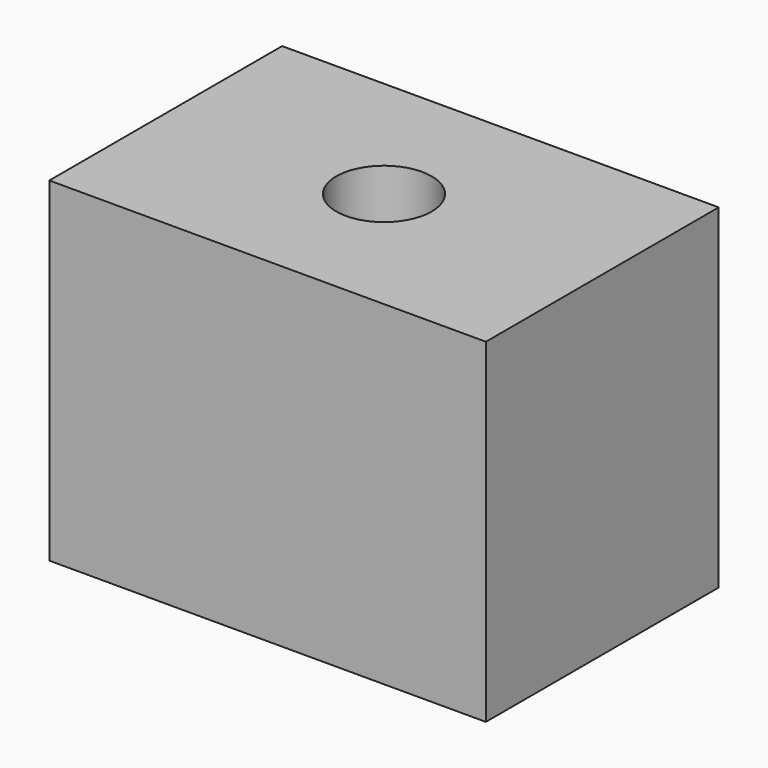
from build123d import *

# Parameters (mm, degrees)
F0_W     = 38.1
F0_H     = 25.4
F0_R     = 4.1656
F1_DEPTH = 29.21
F2_R     = 3.175
F3_DEPTH = 12.7
F4_R     = 1.5875
F5_DEPTH = 12.7


with BuildPart() as f1:
    # F0 (on Top) → F1 (new body)
    with BuildSketch(Plane.XY):
        Rectangle(F0_W, F0_H)
        Circle(F0_R, mode=Mode.SUBTRACT)
    extrude(amount=-F1_DEPTH)

    # F2 (on face) → F3 (cut)
    with BuildSketch(Plane(origin=(0, 0, -29.21), x_dir=(1, 0, 0), z_dir=(0, 0, -1))):
        with Locations((-12.7, 0)):
            Circle(F2_R)
        with Locations((12.7, 0)):
            Circle(F2_R)
    extrude(amount=-F3_DEPTH, mode=Mode.SUBTRACT)

    # F4 (on face) → F5 (cut)
    with BuildSketch(Plane(origin=(0, 12.7, 0), x_dir=(-1, 0, 0), z_dir=(0, 1, 0))):
        with Locations((0, -14.605)):
            Circle(F4_R)
    extrude(amount=-F5_DEPTH, mode=Mode.SUBTRACT)


solid = f1.part
